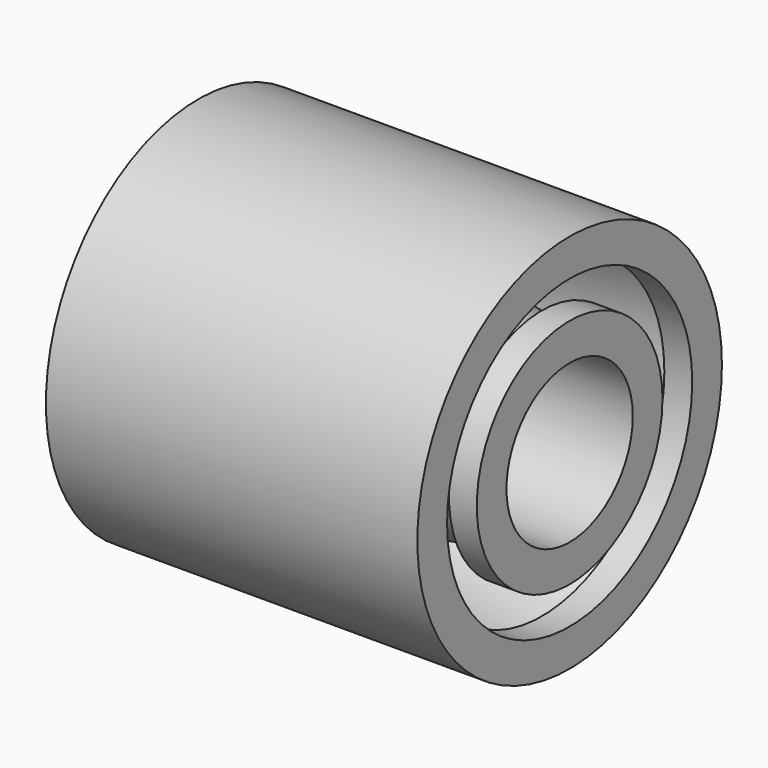
from build123d import *


with BuildPart() as f1:
    # F0 (on Top) → F1 (revolve)
    with BuildSketch(Plane.XY):
        Polygon((-10, 6.25), (-10, 4.25), (10, 4.25), (10, 6.25), (8.5, 6.25), (8.5, 4.75), (0, 6.248779), (-8.5, 4.75), (-8.5, 6.25), align=None)
        Polygon((-10, 10.25), (-10, 8.25), (-8.5, 8.25), (-8.5, 9.75), (0, 8.251221), (8.5, 9.75), (8.5, 8.25), (10, 8.25), (10, 10.25), align=None)
    revolve(axis=Axis((6.478019, 0, 0), (1, 0, 0)))


solid = f1.part
